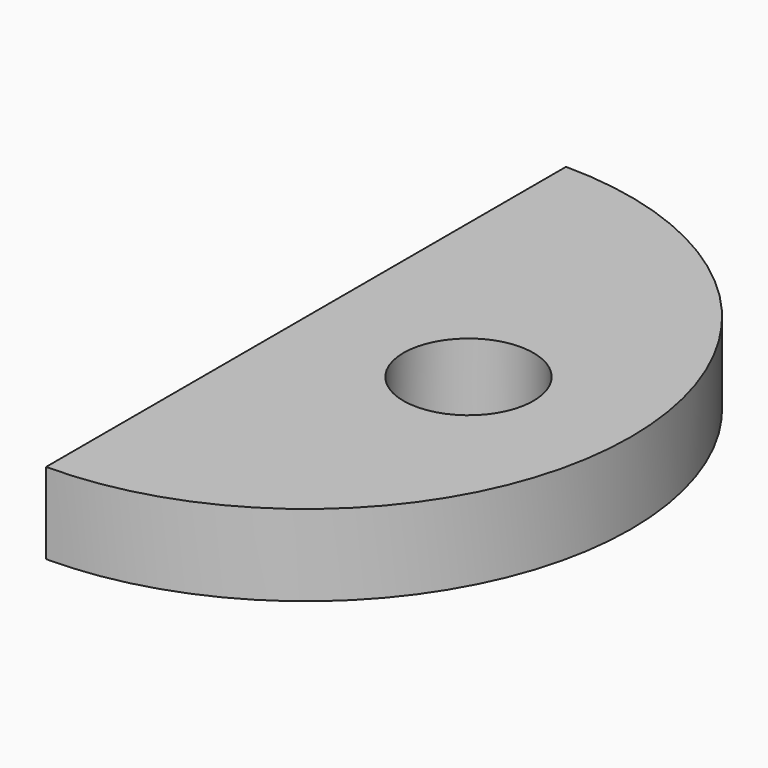
from build123d import *

# Parameters (mm, degrees)
BOX011_W               = 10
BOX011_H               = 20
BOX011_DEPTH           = 5
CYLINDER007_R          = 2
CYLINDER007_DEPTH      = 2.5
CYLINDER006_R          = 10
CYLINDER006_DEPTH      = 2.5
CUT012_PLACEMENT_ANGLE = 180


with BuildPart() as cubo003:
    # Box011 → Box011 (new body)
    with BuildSketch(Plane.XY.offset(25)):
        with Locations((5, 10)):
            Rectangle(BOX011_W, BOX011_H)
    extrude(amount=BOX011_DEPTH)


with BuildPart() as cilindro007:
    # Cylinder007 → Cylinder007 (new body)
    with BuildSketch(Plane(origin=(-5, 10, 25), x_dir=(1, 0, 0), z_dir=(0, 0, 1))):
        Circle(CYLINDER007_R)
    extrude(amount=CYLINDER007_DEPTH)


with BuildPart() as cut012:
    # Cylinder006 → Cylinder006 (new body)
    with BuildSketch(Plane(origin=(0, 10, 25), x_dir=(1, 0, 0), z_dir=(0, 0, 1))):
        Circle(CYLINDER006_R)
    extrude(amount=CYLINDER006_DEPTH)

    # Cut011: cut Cilindro007
    add(cilindro007.part, mode=Mode.SUBTRACT)

    # Cut012: cut Cubo003
    add(cubo003.part, mode=Mode.SUBTRACT)


with BuildPart() as cut012_1:
    # Cut012 placement: moved
    add(cut012.part.moved(Location((115, 80, 0))).rotate(Axis((115, 80, 0), (0, 0, 1)), CUT012_PLACEMENT_ANGLE))


solid = cut012_1.part
